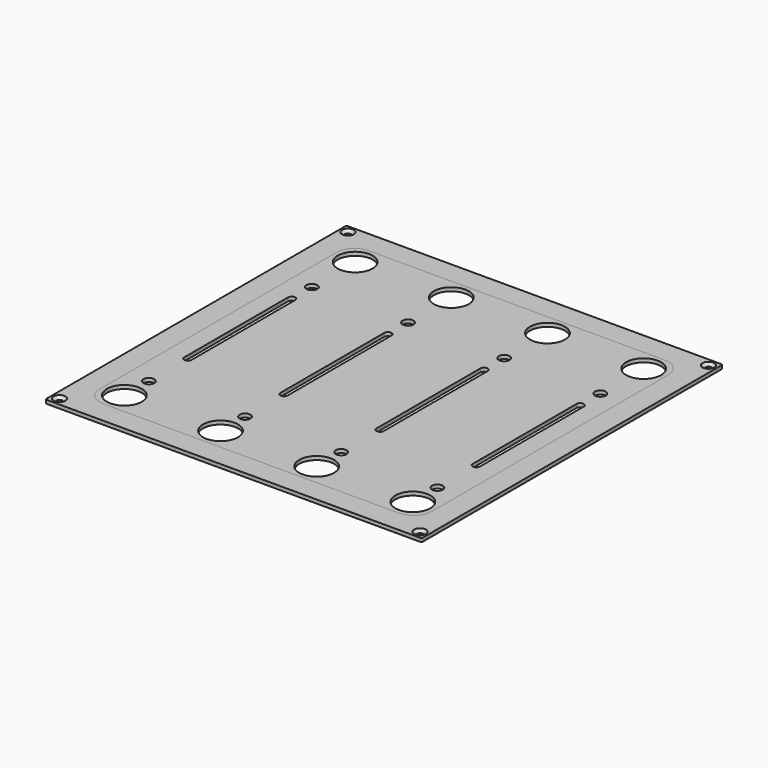
from build123d import *

# Parameters (mm, degrees)
PAD_DEPTH        = 1
POCKET_DEPTH     = 0.001
HOLE_D           = 1.75
HOLE_CSINK_D     = 3.3
HOLE_CSINK_ANGLE = 90
SKETCH007_R      = 4.85
HOLE005_DEPTH    = 1.001
SKETCH008_R      = 1.5
HOLE006_DEPTH    = 1.001
SKETCH009_R      = 4.85
HOLE007_DEPTH    = 1.001
SKETCH010_R      = 1.5
HOLE008_DEPTH    = 1.001
POCKET001_DEPTH  = 1.001
SKETCH012_R      = 1.5
HOLE009_DEPTH    = 1.001
POCKET005_DEPTH  = 1.001


with BuildPart() as base:
    # Sketch → Pad (new body)
    with BuildSketch(Plane.XY):
        with BuildLine():
            Line((-51.8, 52.175), (51.8, 52.175))
            ThreePointArc((52.175, 51.8), (52.065165, 52.065165), (51.8, 52.175))
            Line((52.175, 51.8), (52.175, -51.8))
            ThreePointArc((51.8, -52.175), (52.065165, -52.065165), (52.175, -51.8))
            Line((51.8, -52.175), (-51.8, -52.175))
            ThreePointArc((-52.175, -51.8), (-52.065165, -52.065165), (-51.8, -52.175))
            Line((-52.175, -51.8), (-52.175, 51.8))
            ThreePointArc((-51.8, 52.175), (-52.065165, 52.065165), (-52.175, 51.8))
        make_face()
    extrude(amount=-PAD_DEPTH)

    # Sketch002 → Pocket (cut, through all)
    with BuildSketch(Plane.XY.offset(-4.8)):
        with BuildLine():
            Line((-45, 50.175), (45, 50.175))
            ThreePointArc((45, 50.175), (45.353553, 50.321447), (45.5, 50.675))
            ThreePointArc((45.5, 50.675), (45.353553, 51.028553), (45, 51.175))
            Line((-45, 51.175), (45, 51.175))
            ThreePointArc((-45, 51.175), (-45.353553, 51.028553), (-45.5, 50.675))
            ThreePointArc((-45.5, 50.675), (-45.353553, 50.321447), (-45, 50.175))
        make_face()
        with BuildLine():
            Line((-45, -51.175), (45, -51.175))
            ThreePointArc((45, -51.175), (45.353553, -51.028553), (45.5, -50.675))
            ThreePointArc((45.5, -50.675), (45.353553, -50.321447), (45, -50.175))
            Line((-45, -50.175), (45, -50.175))
            ThreePointArc((-45, -50.175), (-45.353553, -50.321447), (-45.5, -50.675))
            ThreePointArc((-45.5, -50.675), (-45.353553, -51.028553), (-45, -51.175))
        make_face()
        with BuildLine():
            Line((51.175, -45), (51.175, 45))
            ThreePointArc((51.175, 45), (51.028553, 45.353553), (50.675, 45.5))
            ThreePointArc((50.675, 45.5), (50.321447, 45.353553), (50.175, 45))
            Line((50.175, -45), (50.175, 45))
            ThreePointArc((50.175, -45), (50.321447, -45.353553), (50.675, -45.5))
            ThreePointArc((50.675, -45.5), (51.028553, -45.353553), (51.175, -45))
        make_face()
        with BuildLine():
            Line((-50.175, -45), (-50.175, 45))
            ThreePointArc((-50.175, 45), (-50.321447, 45.353553), (-50.675, 45.5))
            ThreePointArc((-50.675, 45.5), (-51.028553, 45.353553), (-51.175, 45))
            Line((-51.175, -45), (-51.175, 45))
            ThreePointArc((-51.175, -45), (-51.028553, -45.353553), (-50.675, -45.5))
            ThreePointArc((-50.675, -45.5), (-50.321447, -45.353553), (-50.175, -45))
        make_face()
    extrude(amount=-POCKET_DEPTH, mode=Mode.SUBTRACT)

    # Hole (through all)
    with Locations(Plane.XY):
        with Locations((-50, 50), (50, 50), (50, -50), (-50, -50)):
            CounterSinkHole(HOLE_D / 2, HOLE_CSINK_D / 2, counter_sink_angle=HOLE_CSINK_ANGLE)


with BuildPart() as obj1:
    # Body003 base: copy of Base
    add(base.part)

    # Sketch007 → Hole005 (cut, through all)
    with BuildSketch(Plane.XY):
        with Locations((-40.005, -40.005)):
            Circle(SKETCH007_R)
        with Locations((-13.335, -40.005)):
            Circle(SKETCH007_R)
        with Locations((13.335, -40.005)):
            Circle(SKETCH007_R)
        with Locations((40.005, -40.005)):
            Circle(SKETCH007_R)
    extrude(amount=-HOLE005_DEPTH, mode=Mode.SUBTRACT)

    # Sketch008 → Hole006 (cut, through all)
    with BuildSketch(Plane.XY):
        with Locations((-40.005, -31.505)):
            Circle(SKETCH008_R)
        with Locations((-13.335, -31.505)):
            Circle(SKETCH008_R)
        with Locations((13.335, -31.505)):
            Circle(SKETCH008_R)
        with Locations((40.005, -31.505)):
            Circle(SKETCH008_R)
    extrude(amount=-HOLE006_DEPTH, mode=Mode.SUBTRACT)

    # Sketch009 → Hole007 (cut, through all)
    with BuildSketch(Plane.XY):
        with Locations((-40.005, 40.005)):
            Circle(SKETCH009_R)
        with Locations((-13.335, 40.005)):
            Circle(SKETCH009_R)
        with Locations((13.335, 40.005)):
            Circle(SKETCH009_R)
        with Locations((40.005, 40.005)):
            Circle(SKETCH009_R)
    extrude(amount=-HOLE007_DEPTH, mode=Mode.SUBTRACT)

    # Sketch010 → Hole008 (cut, through all)
    with BuildSketch(Plane.XY):
        with Locations((-40.005, 48.505)):
            Circle(SKETCH010_R)
        with Locations((-13.335, 48.505)):
            Circle(SKETCH010_R)
        with Locations((13.335, 48.505)):
            Circle(SKETCH010_R)
        with Locations((40.005, 48.505)):
            Circle(SKETCH010_R)
    extrude(amount=-HOLE008_DEPTH, mode=Mode.SUBTRACT)

    # Sketch011 → Pocket001 (cut, through all)
    with BuildSketch(Plane.XY):
        with BuildLine():
            ThreePointArc((-39.005, 18), (-40.005, 19), (-41.005, 18))
            Line((-41.005, 18), (-41.005, -18))
            ThreePointArc((-41.005, -18), (-40.005, -19), (-39.005, -18))
            Line((-39.005, 18), (-39.005, -18))
        make_face()
        with BuildLine():
            ThreePointArc((-12.335, 18), (-13.335, 19), (-14.335, 18))
            Line((-14.335, 18), (-14.335, -18))
            ThreePointArc((-14.335, -18), (-13.335, -19), (-12.335, -18))
            Line((-12.335, 18), (-12.335, -18))
        make_face()
        with BuildLine():
            ThreePointArc((14.335, 18), (13.335, 19), (12.335, 18))
            Line((12.335, 18), (12.335, -18))
            ThreePointArc((12.335, -18), (13.335, -19), (14.335, -18))
            Line((14.335, 18), (14.335, -18))
        make_face()
        with BuildLine():
            ThreePointArc((41.005, 18), (40.005, 19), (39.005, 18))
            Line((39.005, 18), (39.005, -18))
            ThreePointArc((39.005, -18), (40.005, -19), (41.005, -18))
            Line((41.005, 18), (41.005, -18))
        make_face()
    extrude(amount=-POCKET001_DEPTH, mode=Mode.SUBTRACT)

    # Sketch012 → Hole009 (cut, through all)
    with BuildSketch(Plane.XY):
        with Locations((-40.005, 25)):
            Circle(SKETCH012_R)
        with Locations((-13.335, 25)):
            Circle(SKETCH012_R)
        with Locations((13.335, 25)):
            Circle(SKETCH012_R)
        with Locations((40.005, 25)):
            Circle(SKETCH012_R)
    extrude(amount=-HOLE009_DEPTH, mode=Mode.SUBTRACT)


with BuildPart() as xy:
    # Body009 base: copy of Base
    add(base.part)

    # Sketch019 → Pocket005 (cut, through all)
    with BuildSketch(Plane.XY):
        with BuildLine():
            Line((-41, 46), (41, 46))
            ThreePointArc((46, 41), (44.535534, 44.535534), (41, 46))
            Line((46, 41), (46, -41))
            ThreePointArc((41, -46), (44.535534, -44.535534), (46, -41))
            Line((41, -46), (-41, -46))
            ThreePointArc((-46, -41), (-44.535534, -44.535534), (-41, -46))
            Line((-46, -41), (-46, 41))
            ThreePointArc((-41, 46), (-44.535534, 44.535534), (-46, 41))
        make_face()
    extrude(amount=-POCKET005_DEPTH, mode=Mode.SUBTRACT)


solid = Compound([obj1.part, xy.part])
